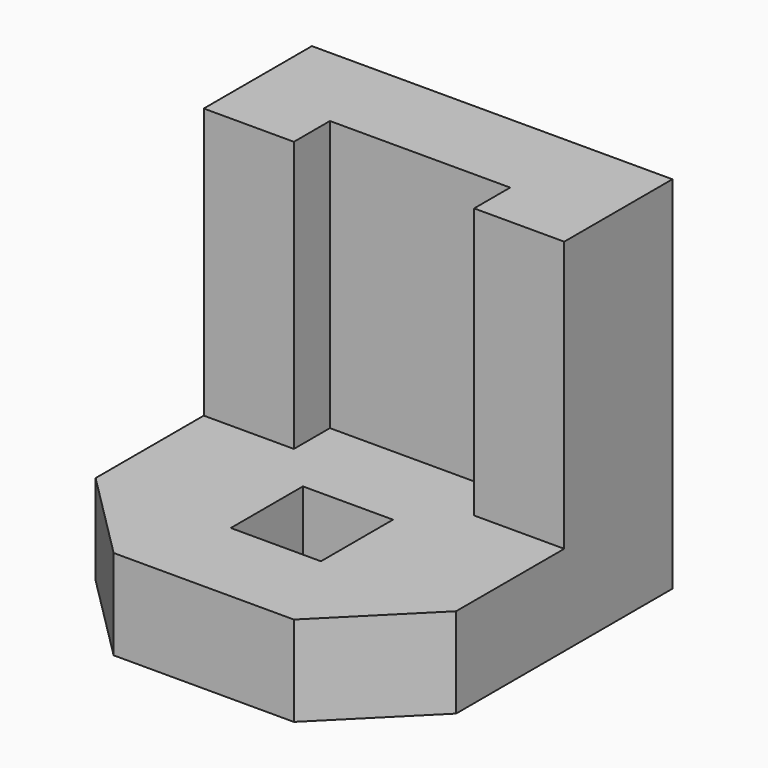
from build123d import *

# Parameters (mm, degrees)
F0_W     = 101.6
F0_H     = 101.6
F1_DEPTH = 101.6
F3_DEPTH = 76.2
F4_W     = 50.8
F4_H     = 12.7
F5_DEPTH = 76.2
F6_W     = 12.7
F6_H     = 25.4
F7_DEPTH = 68.326


with BuildPart() as f1:
    # F0 (on Right) → F1 (new body)
    with BuildSketch(Plane.YZ):
        with Locations((50.8, -50.8)):
            Rectangle(F0_W, F0_H)
    extrude(amount=-F1_DEPTH)

    # F2 (on face) → F3 (cut)
    with BuildSketch(Plane.XY):
        Polygon((-76.2, 63.5), (-101.6, 63.5), (-101.6, 0), (0, 0), (0, 63.5), (-25.4, 63.5), align=None)
    extrude(amount=-F3_DEPTH, mode=Mode.SUBTRACT)

    # F4 (on face) → F5 (cut)
    with BuildSketch(Plane.XY):
        with Locations((-50.8, 69.85)):
            Rectangle(F4_W, F4_H)
    extrude(amount=-F5_DEPTH, mode=Mode.SUBTRACT)

    # F6 (on face) → F7 (cut)
    with BuildSketch(Plane.XY.offset(-76.2)):
        Polygon((-101.6, 25.4), (-101.6, 0), (-76.2, 0), align=None)
        Polygon((0, 0), (0, 25.4), (-25.4, 0), align=None)
        with Locations((-57.15, 38.1)):
            Rectangle(F6_W, F6_H)
        with Locations((-44.45, 38.1)):
            Rectangle(F6_W, F6_H)
    extrude(amount=-F7_DEPTH, mode=Mode.SUBTRACT)


solid = f1.part
